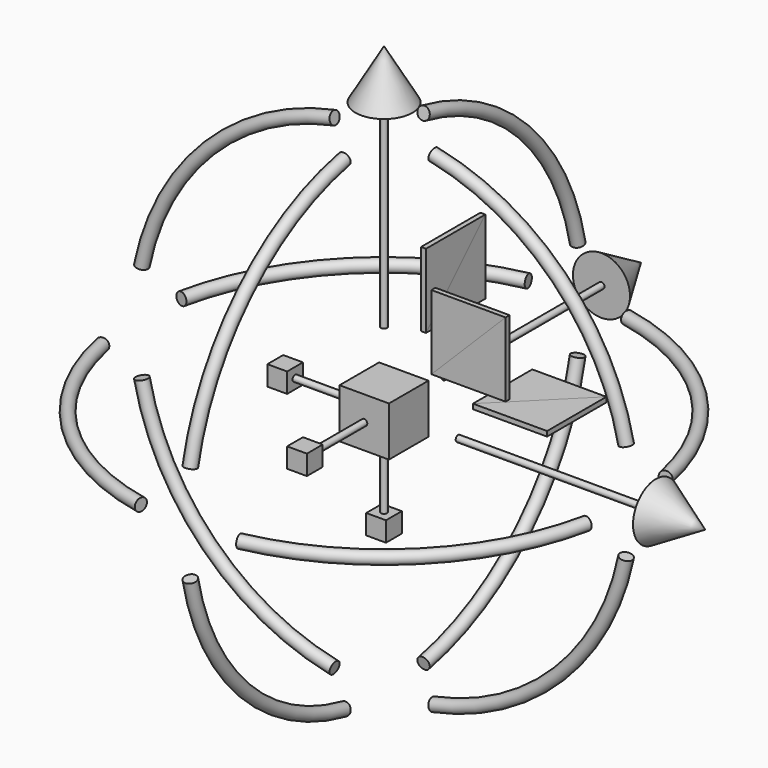
from build123d import *

# Parameters (mm, degrees)
F6_W      = 10
F6_H      = 10
F7_DEPTH  = 5
F8_W      = 4
F8_H      = 4
F9_DEPTH  = 2
F10_R     = 0.625
F11_DEPTH = 18
F12_COUNT = 2
F12_ANGLE = 90
F13_COUNT = 2
F13_ANGLE = 90
F16_R     = 1.25
F18_COUNT = 4
F19_COUNT = 2
F19_ANGLE = 90
F20_COUNT = 2
F20_ANGLE = 90
F22_DEPTH = 0.5
F24_COUNT = 2
F24_ANGLE = 90
F25_COUNT = 2
F25_ANGLE = 90


with BuildPart() as f5:
    # F4 (on Front) → F5 (revolve)
    with BuildSketch(Plane.XZ):
        Polygon((0, 15), (0, 65), (-5.7735026919, 55), (-0.625, 55), (-0.625, 15), align=None)
    revolve(axis=Axis((0, 0, 40), (0, 0, -1)))


with BuildPart() as f7:
    # F6 (on Front) → F7 (new body, symmetric)
    with BuildSketch(Plane.XZ):
        Rectangle(F6_W, F6_H)
    extrude(amount=F7_DEPTH, both=True)


with BuildPart() as f9:
    # F8 (on Front) → F9 (new body, symmetric)
    with BuildSketch(Plane.XZ):
        with Locations((0, -20)):
            Rectangle(F8_W, F8_H)
    extrude(amount=F9_DEPTH, both=True)

    # F10 (on face) → F11 (join, through all)
    with BuildSketch(Plane.XY.offset(-18)):
        Circle(F10_R)
    extrude(amount=F11_DEPTH)


with BuildPart() as f12_1:
    # F12: instance of F5
    add(f5.part.rotate(Axis((0, 14.3104782328, 0), (0, 1, 0)), 1 * F12_ANGLE / (F12_COUNT - 1)))


with BuildPart() as f12_2:
    # F12: instance of F9
    add(f9.part.rotate(Axis((0, 14.3104782328, 0), (0, 1, 0)), 1 * F12_ANGLE / (F12_COUNT - 1)))


with BuildPart() as f13_1:
    # F13: instance of F5
    add(f5.part.rotate(Axis((4.1597168893, 0, 0), (-1, 0, 0)), 1 * F13_ANGLE / (F13_COUNT - 1)))


with BuildPart() as f13_2:
    # F13: instance of F9
    add(f9.part.rotate(Axis((4.1597168893, 0, 0), (-1, 0, 0)), 1 * F13_ANGLE / (F13_COUNT - 1)))


with BuildPart() as f17:
    # F17: sweep along a path in F14
    with BuildLine(Plane.XZ) as f17_path:
        ThreePointArc((-10, 48.9897948557), (-35.3553390593, 35.3553390593), (-48.9897948557, 10))
    # F16 (on line) → F17 (sweep)
    with BuildSketch(Plane(origin=(0, 0, 0), x_dir=(0, -1, 0), z_dir=(-0.9797958971, 0, -0.2))):
        with Locations((0, 50)):
            Circle(F16_R)
    sweep(path=f17_path.line)


with BuildPart() as f18_1:
    # F18: instance of F17
    add(f17.part.rotate(Axis((0, 14.3104782328, 0), (0, 1, 0)), 1 * 360 / F18_COUNT))


with BuildPart() as f18_2:
    # F18: instance of F17
    add(f17.part.rotate(Axis((0, 14.3104782328, 0), (0, 1, 0)), 2 * 360 / F18_COUNT))


with BuildPart() as f18_3:
    # F18: instance of F17
    add(f17.part.rotate(Axis((0, 14.3104782328, 0), (0, 1, 0)), 3 * 360 / F18_COUNT))


with BuildPart() as f19_1:
    # F19: instance of F17
    add(f17.part.rotate(Axis((0, 0, 1.1231396347), (0, 0, 1)), 1 * F19_ANGLE / (F19_COUNT - 1)))


with BuildPart() as f19_2:
    # F19: instance of F18_3
    add(f18_3.part.rotate(Axis((0, 0, 1.1231396347), (0, 0, 1)), 1 * F19_ANGLE / (F19_COUNT - 1)))


with BuildPart() as f19_3:
    # F19: instance of F18_1
    add(f18_1.part.rotate(Axis((0, 0, 1.1231396347), (0, 0, 1)), 1 * F19_ANGLE / (F19_COUNT - 1)))


with BuildPart() as f19_4:
    # F19: instance of F18_2
    add(f18_2.part.rotate(Axis((0, 0, 1.1231396347), (0, 0, 1)), 1 * F19_ANGLE / (F19_COUNT - 1)))


with BuildPart() as f20_1:
    # F20: instance of F19_1
    add(f19_1.part.rotate(Axis((0, 14.3104782328, 0), (0, 1, 0)), 1 * F20_ANGLE / (F20_COUNT - 1)))


with BuildPart() as f20_2:
    # F20: instance of F19_2
    add(f19_2.part.rotate(Axis((0, 14.3104782328, 0), (0, 1, 0)), 1 * F20_ANGLE / (F20_COUNT - 1)))


with BuildPart() as f20_3:
    # F20: instance of F19_4
    add(f19_4.part.rotate(Axis((0, 14.3104782328, 0), (0, 1, 0)), 1 * F20_ANGLE / (F20_COUNT - 1)))


with BuildPart() as f20_4:
    # F20: instance of F19_3
    add(f19_3.part.rotate(Axis((0, 14.3104782328, 0), (0, 1, 0)), 1 * F20_ANGLE / (F20_COUNT - 1)))


with BuildPart() as f22:
    # F21 (on Front) → F22 (new body, symmetric)
    with BuildSketch(Plane.XZ):
        Polygon((10, 10), (25, 25), (10, 25), align=None)
    extrude(amount=F22_DEPTH, both=True)


with BuildPart() as f23_1:
    # F23: instance of F22
    add(f22.part.mirror(Plane(origin=(17.5, 0, 17.5), x_dir=(0, 1, 0), z_dir=(0.7071067812, 0, -0.7071067812))))


with BuildPart() as f24_1:
    # F24: instance of F22
    add(f22.part.rotate(Axis((0, 0, 1.1231396347), (0, 0, 1)), 1 * F24_ANGLE / (F24_COUNT - 1)))


with BuildPart() as f24_2:
    # F24: instance of F23_1
    add(f23_1.part.rotate(Axis((0, 0, 1.1231396347), (0, 0, 1)), 1 * F24_ANGLE / (F24_COUNT - 1)))


with BuildPart() as f25_1:
    # F25: instance of F24_1
    add(f24_1.part.rotate(Axis((0, 14.3104782328, 0), (0, 1, 0)), 1 * F25_ANGLE / (F25_COUNT - 1)))


with BuildPart() as f25_2:
    # F25: instance of F24_2
    add(f24_2.part.rotate(Axis((0, 14.3104782328, 0), (0, 1, 0)), 1 * F25_ANGLE / (F25_COUNT - 1)))


solid = Compound([f5.part, f7.part, f9.part, f12_1.part, f12_2.part, f13_1.part, f13_2.part, f17.part, f18_1.part, f18_2.part, f18_3.part, f19_1.part, f19_2.part, f19_3.part, f19_4.part, f20_1.part, f20_2.part, f20_3.part, f20_4.part, f22.part, f23_1.part, f24_1.part, f24_2.part, f25_1.part, f25_2.part])
